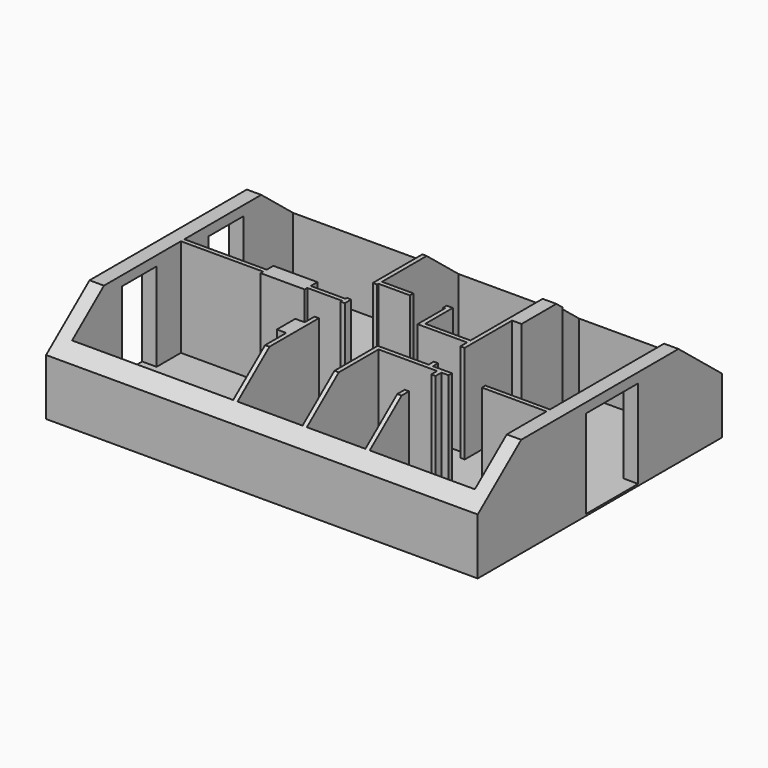
from build123d import *

# Parameters (mm, degrees)
F0_W     = 179
F0_H     = 12
F0_W_2   = 138
F0_H_2   = 40
F0_W_3   = 40
F0_H_3   = 120
F0_W_4   = 92
F0_W_5   = 12
F0_H_4   = 90
F0_H_5   = 180
F0_W_6   = 87
F0_H_6   = 92
F0_W_7   = 26
F0_H_7   = 142
F0_H_8   = 136
F0_W_8   = 228
F0_H_9   = 18
F0_H_10  = 20
F0_W_9   = 20
F1_DEPTH = 5
F2_DEPTH = 277
F3_W     = 40
F3_H     = 120
F3_H_2   = 180
F4_DEPTH = 27
F6_DEPTH = 1195.001


with BuildPart() as f1:
    # F0 (on Top) → F1 (new body)
    with BuildSketch(Plane.XY):
        with Locations((1040.5, 269)):
            Rectangle(F0_W, F0_H)
        Polygon((794, 408), (794, 420), (669, 420), (669, 515), (652, 515), (652, 503), (657, 503), (657, 408), align=None)
        with Locations((392, -5)):
            Rectangle(F0_W_2, F0_H_2)
        Polygon((1130, 350), (1130, 530), (1130, 780), (806, 780), (806, 691), (832, 691), (832, 549), (806, 549), (806, 385), (806, 293), (806, 275), (839, 275), (859, 275), (951, 275), (1130, 275), align=None)
        with Locations((-5, 547.5)):
            Rectangle(F0_W_3, F0_H_3)
        with Locations((-5, 247.5)):
            Rectangle(F0_W_3, F0_H_3)
        Polygon((15, 487.5), (-25, 487.5), (-25, 307.5), (15, 307.5), (15, 382.1609020233), (15, 391.5), (15, 403.5), align=None)
        Polygon((15, 187.5), (-25, 187.5), (-25, -25), (323, -25), (323, 15), (15, 15), align=None)
        Polygon((1130, 15), (1130, 263), (951, 263), (859, 263), (839, 263), (839, 243), (839, 151), (839, 15), align=None)
        with Locations((905, 269)):
            Rectangle(F0_W_4, F0_H)
        Polygon((364.8940163038, 391.5), (243, 391.5), (243, 382.5), (364.8667633533, 382.5), align=None)
        Polygon((473, 780), (461, 780), (461, 498.5), (473, 498.5), (473, 503), (473, 515), align=None)
        with Locations((467, 453.5)):
            Rectangle(F0_W_5, F0_H_4)
        Polygon((243, 426.5), (243, 403.5), (364.9303535711, 403.5), (365, 426.5), align=None)
        Polygon((473, 503), (473, 498.5), (473, 408.5), (473, 386.5), (473, 296.5), (473, 275), (653, 275), (670, 275), (794, 275), (794, 293), (794, 385), (794, 408), (657, 408), (657, 503), (652, 503), (560, 503), align=None)
        with Locations((1150, 440)):
            Rectangle(F0_W_3, F0_H_5)
        Polygon((665, 263), (665, 15), (827, 15), (827, 151), (827, 243), (827, 263), (806, 263), (794, 263), align=None)
        with Locations((516.5, 509)):
            Rectangle(F0_W_6, F0_H)
        with Locations((467, 341.5)):
            Rectangle(F0_W_5, F0_H_4)
        Polygon((15, 382.1609020233), (15, 307.5), (15, 187.5), (15, 15), (323, 15), (461, 15), (461, 198.5), (435, 198.5), (435, 262.5), (461, 262.5), (461, 296.5), (461, 386.5), (461, 391.5), (365, 391.5), (364.8940163038, 391.5), (364.8667633533, 382.5), (243, 382.5), (243, 391.5), (15, 391.5), align=None)
        Polygon((1170, 530), (1170, 820), (-25, 820), (-25, 607.5), (15, 607.5), (15, 780), (461, 780), (473, 780), (794, 780), (806, 780), (1130, 780), (1130, 530), align=None)
        with Locations((833, 197)):
            Rectangle(F0_W_5, F0_H_6)
        Polygon((461, 198.5), (461, 15), (473, 15), (473, 275), (473, 296.5), (461, 296.5), (461, 262.5), (435, 262.5), (435, 198.5), align=None)
        Polygon((794, 420), (794, 780), (473, 780), (473, 515), (560, 515), (652, 515), (669, 515), (669, 420), align=None)
        with Locations((819, 620)):
            Rectangle(F0_W_7, F0_H_7)
        with Locations((606, 509)):
            Rectangle(F0_W_4, F0_H)
        with Locations((833, 83)):
            Rectangle(F0_W_5, F0_H_8)
        Polygon((653, 275), (653, 15), (665, 15), (665, 263), (794, 263), (794, 275), (670, 275), align=None)
        Polygon((1170, -25), (1170, 350), (1130, 350), (1130, 275), (1130, 263), (1130, 15), (839, 15), (827, 15), (665, 15), (653, 15), (473, 15), (461, 15), (461, -25), align=None)
        with Locations((800, 339)):
            Rectangle(F0_W_5, F0_H_6)
        with Locations((129, 397.5)):
            Rectangle(F0_W_8, F0_H)
        with Locations((800, 284)):
            Rectangle(F0_W_5, F0_H_9)
        Polygon((806, 691), (806, 780), (794, 780), (794, 420), (794, 408), (794, 385), (806, 385), (806, 549), align=None)
        with Locations((833, 253)):
            Rectangle(F0_W_5, F0_H_10)
        Polygon((839, 263), (839, 275), (806, 275), (806, 263), (827, 263), align=None)
        with Locations((849, 269)):
            Rectangle(F0_W_9, F0_H)
        Polygon((365, 403.5), (364.9303535711, 403.5), (364.8940163038, 391.5), (365, 391.5), (461, 391.5), (461, 386.5), (473, 386.5), (473, 408.5), (461, 408.5), (461, 403.5), align=None)
        Polygon((364.9303535711, 403.5), (243, 403.5), (243, 391.5), (364.8940163038, 391.5), align=None)
        with Locations((800, 269)):
            Rectangle(F0_W_5, F0_H)
        Polygon((15, 780), (15, 607.5), (15, 487.5), (15, 403.5), (243, 403.5), (243, 426.5), (365, 426.5), (364.9303535711, 403.5), (365, 403.5), (461, 403.5), (461, 408.5), (461, 498.5), (461, 780), align=None)
    extrude(amount=F1_DEPTH)

    # F0 (on Top) → F2 (join)
    with BuildSketch(Plane.XY):
        Polygon((15, 187.5), (-25, 187.5), (-25, -25), (323, -25), (323, 15), (15, 15), align=None)
        with Locations((392, -5)):
            Rectangle(F0_W_2, F0_H_2)
        Polygon((1170, -25), (1170, 350), (1130, 350), (1130, 275), (1130, 263), (1130, 15), (839, 15), (827, 15), (665, 15), (653, 15), (473, 15), (461, 15), (461, -25), align=None)
        with Locations((833, 83)):
            Rectangle(F0_W_5, F0_H_8)
        Polygon((653, 275), (653, 15), (665, 15), (665, 263), (794, 263), (794, 275), (670, 275), align=None)
        Polygon((461, 198.5), (461, 15), (473, 15), (473, 275), (473, 296.5), (461, 296.5), (461, 262.5), (435, 262.5), (435, 198.5), align=None)
        Polygon((15, 487.5), (-25, 487.5), (-25, 307.5), (15, 307.5), (15, 382.1609020233), (15, 391.5), (15, 403.5), align=None)
        with Locations((129, 397.5)):
            Rectangle(F0_W_8, F0_H)
        Polygon((243, 426.5), (243, 403.5), (364.9303535711, 403.5), (365, 426.5), align=None)
        Polygon((364.9303535711, 403.5), (243, 403.5), (243, 391.5), (364.8940163038, 391.5), align=None)
        Polygon((364.8940163038, 391.5), (243, 391.5), (243, 382.5), (364.8667633533, 382.5), align=None)
        Polygon((365, 403.5), (364.9303535711, 403.5), (364.8940163038, 391.5), (365, 391.5), (461, 391.5), (461, 386.5), (473, 386.5), (473, 408.5), (461, 408.5), (461, 403.5), align=None)
        Polygon((473, 780), (461, 780), (461, 498.5), (473, 498.5), (473, 503), (473, 515), align=None)
        with Locations((516.5, 509)):
            Rectangle(F0_W_6, F0_H)
        Polygon((794, 408), (794, 420), (669, 420), (669, 515), (652, 515), (652, 503), (657, 503), (657, 408), align=None)
        Polygon((806, 691), (806, 780), (794, 780), (794, 420), (794, 408), (794, 385), (806, 385), (806, 549), align=None)
        with Locations((833, 253)):
            Rectangle(F0_W_5, F0_H_10)
        with Locations((849, 269)):
            Rectangle(F0_W_9, F0_H)
        Polygon((839, 263), (839, 275), (806, 275), (806, 263), (827, 263), align=None)
        with Locations((800, 269)):
            Rectangle(F0_W_5, F0_H)
        with Locations((800, 284)):
            Rectangle(F0_W_5, F0_H_9)
        with Locations((1040.5, 269)):
            Rectangle(F0_W, F0_H)
        Polygon((1170, 530), (1170, 820), (-25, 820), (-25, 607.5), (15, 607.5), (15, 780), (461, 780), (473, 780), (794, 780), (806, 780), (1130, 780), (1130, 530), align=None)
        with Locations((819, 620)):
            Rectangle(F0_W_7, F0_H_7)
    extrude(amount=F2_DEPTH)

    # F3 (on face) → F4 (join)
    with BuildSketch(Plane.XY.offset(277)):
        with Locations((-5, 547.5)):
            Rectangle(F3_W, F3_H)
        with Locations((-5, 397.5)):
            Rectangle(F3_W, F3_H_2)
        with Locations((-5, 247.5)):
            Rectangle(F3_W, F3_H)
        with Locations((1150, 440)):
            Rectangle(F3_W, F3_H_2)
    extrude(amount=-F4_DEPTH)

    # F5 (on face) → F6 (cut, through all)
    with BuildSketch(Plane(origin=(-25, 0, 0), x_dir=(0, -1, 0), z_dir=(-1, 0, 0))):
        Polygon((-669.6397058824, 277), (-397.5, 496), (-820, 496), (-820, 277), align=None)
        Polygon((-820, 156), (-669.6397058824, 277), (-820, 277), align=None)
        Polygon((25, 496), (-397.5, 496), (-125.3602941176, 277), (25, 277), align=None)
        Polygon((25, 277), (-125.3602941176, 277), (25, 156), align=None)
    extrude(amount=-F6_DEPTH, mode=Mode.SUBTRACT)


solid = f1.part
